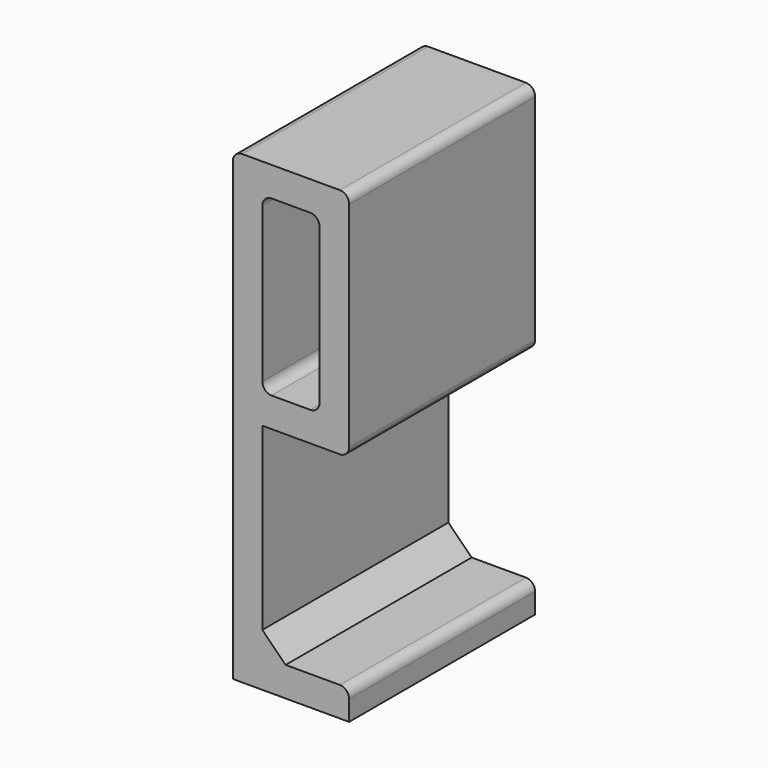
from build123d import *

# Parameters (mm, degrees)
BINDER_FACE1_W = 12.3
BINDER_FACE1_H = 37.3
PAD_DEPTH      = 50
CHAMFER_SIZE   = 5
FILLET_R       = 2
FILLET001_R    = 2
FILLET002_R    = 2
FILLET003_R    = 2
FILLET004_R    = 2
FILLET005_R    = 2
FILLET006_R    = 2
FILLET007_R    = 2


with BuildPart() as part:
    # Binder Face1 → Pad (new)
    with BuildSketch(Plane(origin=(10.393732, 0, 55.131766), x_dir=(1, 0, 0), z_dir=(0, 1, 0))):
        Polygon((14.606268, 5.131766), (-4.043732, 5.131766), (-4.043732, 48.781766), (14.606268, 48.781766), (14.606268, 55.131766), (-10.393732, 55.131766), (-10.393732, -44.868234), (14.606268, -44.868234), align=None)
        with Locations((2.106268, -19.868234)):
            Rectangle(BINDER_FACE1_W, BINDER_FACE1_H, mode=Mode.SUBTRACT)
    extrude(amount=PAD_DEPTH)

    # Chamfer
    chamfer_edges = [part.edges().sort_by_distance(p)[0] for p in [
        (6.35, 25, 6.35),
    ]]
    chamfer(chamfer_edges, length=CHAMFER_SIZE)

    # Fillet
    fillet_edges = [part.edges().sort_by_distance(p)[0] for p in [
        (25, 25, 6.35),
    ]]
    fillet(fillet_edges, radius=FILLET_R)

    # Fillet001
    fillet001_edges = [part.edges().sort_by_distance(p)[0] for p in [
        (25, 25, 50),
    ]]
    fillet(fillet001_edges, radius=FILLET001_R)

    # Fillet002
    fillet002_edges = [part.edges().sort_by_distance(p)[0] for p in [
        (25, 25, 100),
    ]]
    fillet(fillet002_edges, radius=FILLET002_R)

    # Fillet003
    fillet003_edges = [part.edges().sort_by_distance(p)[0] for p in [
        (0, 25, 100),
    ]]
    fillet(fillet003_edges, radius=FILLET003_R)

    # Fillet004
    fillet004_edges = [part.edges().sort_by_distance(p)[0] for p in [
        (6.35, 25, 93.65),
    ]]
    fillet(fillet004_edges, radius=FILLET004_R)

    # Fillet005
    fillet005_edges = [part.edges().sort_by_distance(p)[0] for p in [
        (18.65, 25, 93.65),
    ]]
    fillet(fillet005_edges, radius=FILLET005_R)

    # Fillet006
    fillet006_edges = [part.edges().sort_by_distance(p)[0] for p in [
        (6.35, 25, 56.35),
    ]]
    fillet(fillet006_edges, radius=FILLET006_R)

    # Fillet007
    fillet007_edges = [part.edges().sort_by_distance(p)[0] for p in [
        (18.65, 25, 56.35),
    ]]
    fillet(fillet007_edges, radius=FILLET007_R)


solid = part.part
